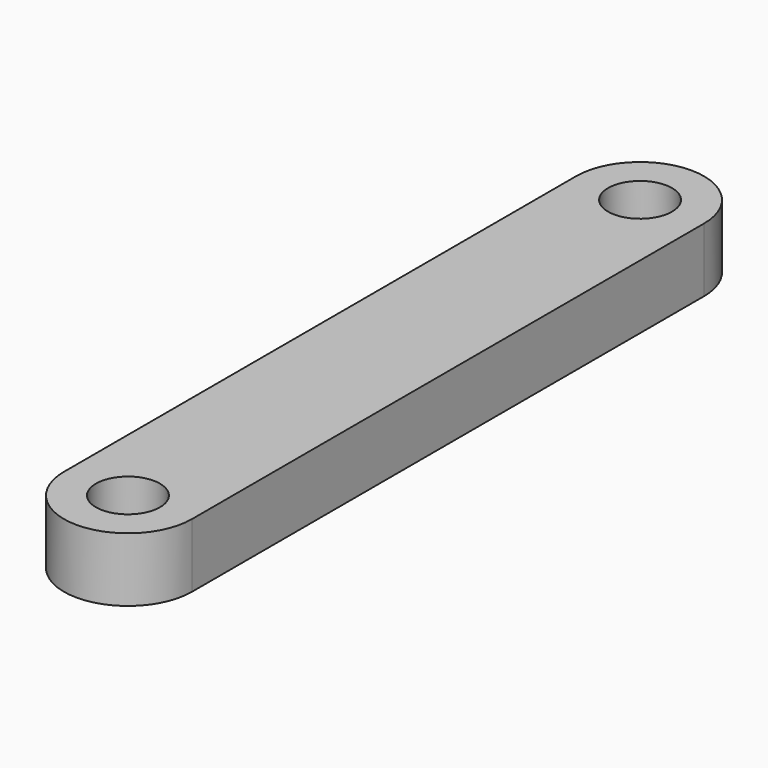
from build123d import *

# Parameters (mm, degrees)
F1_DEPTH = 25.4
F2_R     = 12.7
F3_DEPTH = 25.4


with BuildPart() as f1:
    # F0 (on Top) → F1 (new body)
    with BuildSketch(Plane.XY):
        with BuildLine():
            Line((-25.4, 127), (-25.4, 0))
            Line((-25.4, 0), (25.4, 0))
            Line((25.4, 0), (25.4, 127))
            ThreePointArc((25.4, 127), (0, 101.6), (-25.4, 127))
        make_face()
        with BuildLine():
            ThreePointArc((25.4, 127), (0, 152.4), (-25.4, 127))
            Line((-25.4, 127), (25.4, 127))
        make_face()
        with BuildLine():
            Line((25.4, 127), (-25.4, 127))
            ThreePointArc((-25.4, 127), (0, 101.6), (25.4, 127))
        make_face()
    extrude(amount=F1_DEPTH)

    # F2 (on face) → F3 (cut)
    with BuildSketch(Plane.XY.offset(25.4)):
        with Locations((0, 127)):
            Circle(F2_R)
    extrude(amount=-F3_DEPTH, mode=Mode.SUBTRACT)

    # F4: F1 across face


with BuildPart() as f1_1:
    add(f1.part)
    add(f1.part.mirror(Plane(origin=(0, 0, 12.7), x_dir=(1, 0, 0), z_dir=(0, -1, 0))))


solid = f1_1.part
